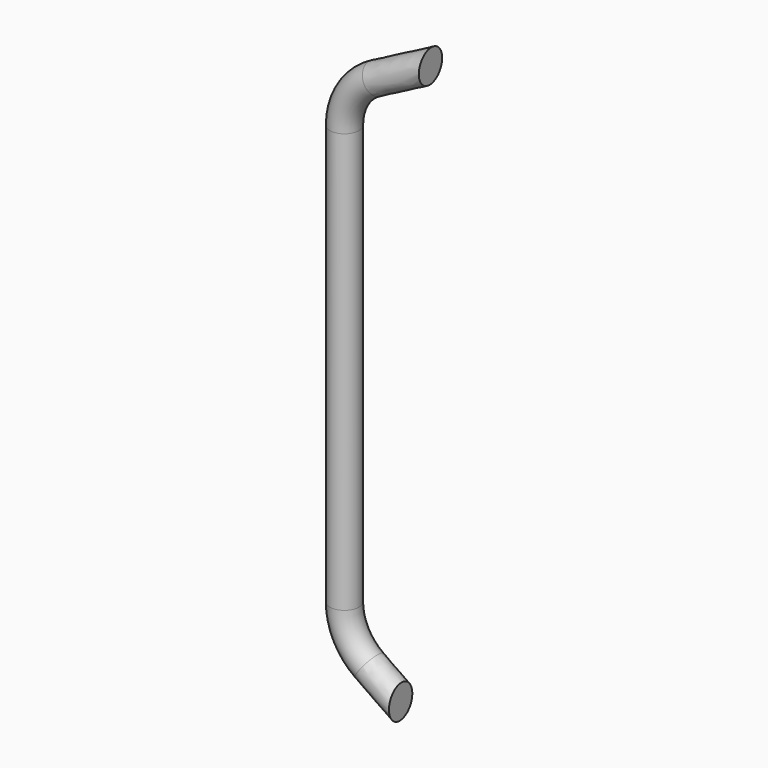
from build123d import *

# Parameters (mm, degrees)
F2_R     = 9.525
F5_DEPTH = 12.7


with BuildPart() as f3:
    # F3: sweep along a path in F0
    with BuildLine(Plane.XZ) as f3_path:
        Line((0, 0), (-25.366186, 17.761595))
        ThreePointArc((-25.366186, 17.761595), (-37.308037, 31.378665), (-41.612924, 48.971288))
        Line((-41.612924, 48.971288), (-41.612924, 323.518035))
        ThreePointArc((-41.612924, 323.518035), (-36.085066, 343.283297), (-21.105546, 357.313148))
        Line((-21.105546, 357.313148), (20.344783, 378.890824))
    # F2 (on face) → F3 (sweep)
    with BuildSketch(Plane(origin=(0, 0, 0), x_dir=(0, -1, 0), z_dir=(-0.819152, 0, 0.573576))):
        Circle(F2_R)
    sweep(path=f3_path.line)

    # F4 (on Front) → F5 (cut, symmetric)
    with BuildSketch(Plane.XZ):
        Polygon((15.3282, 388.527589), (-5.463316, -7.802423), (13.586684, -7.802423), (34.3782, 388.527589), align=None)
    extrude(amount=F5_DEPTH, both=True, mode=Mode.SUBTRACT)


solid = f3.part
